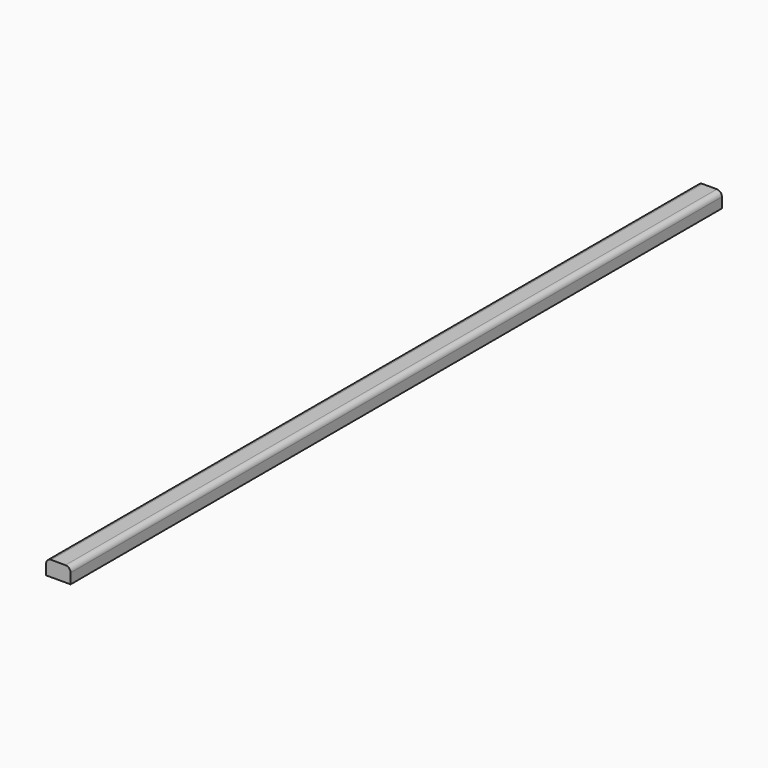
from build123d import *

# Parameters (mm, degrees)
F0_W     = 48
F0_H     = 30
F1_DEPTH = 1596
F2_R     = 10


with BuildPart() as f1:
    # F0 (on Front) → F1 (new body)
    with BuildSketch(Plane.XZ):
        Rectangle(F0_W, F0_H)
    extrude(amount=F1_DEPTH)

    # F2
    f2_edges = [f1.edges().sort_by_distance(p)[0] for p in [
        (-24, -798, 15),
        (24, -798, 15),
    ]]
    fillet(f2_edges, radius=F2_R)


solid = f1.part
